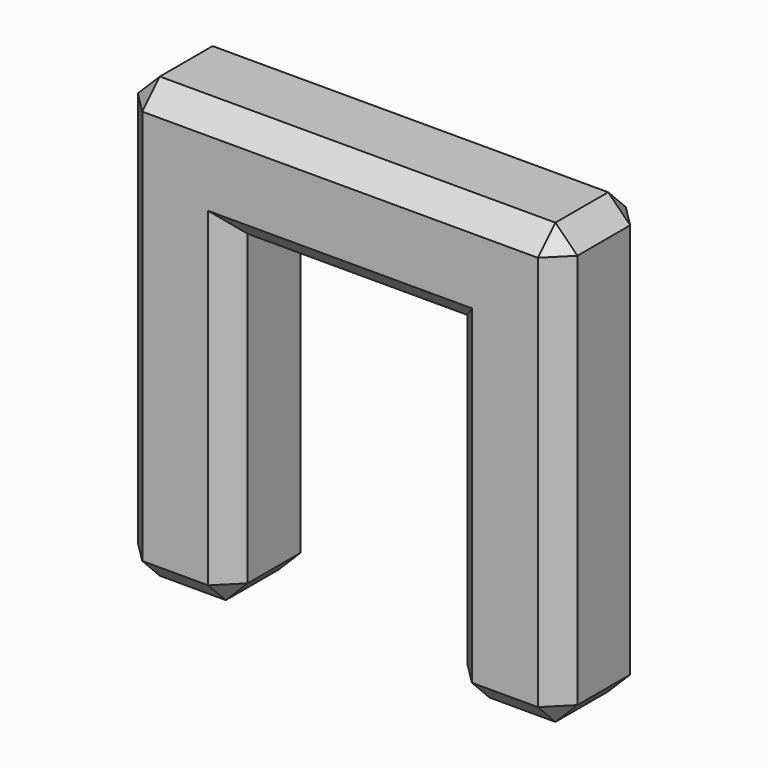
from build123d import *

# Parameters (mm, degrees)
F1_DEPTH = 12.7
F2_SIZE  = 5.08


with BuildPart() as f1:
    # F0 (on Front) → F1 (new body, symmetric)
    with BuildSketch(Plane.XZ):
        Polygon((50.935735, 52.44372), (-50.664265, 52.44372), (-50.664265, -49.15628), (-25.264265, -49.15628), (-25.264265, 27.04372), (25.535735, 27.04372), (25.535735, -49.15628), (50.935735, -49.15628), align=None)
    extrude(amount=F1_DEPTH, both=True)

    # F2
    f2_edges = [f1.edges().sort_by_distance(p)[0] for p in [
        (0.135735, 12.7, 52.44372),
        (-50.664265, 12.7, 1.64372),
        (-37.964265, 12.7, -49.15628),
        (-25.264265, 12.7, -11.05628),
        (0.135735, 12.7, 27.04372),
        (25.535735, 12.7, -11.05628),
        (38.235735, 12.7, -49.15628),
        (50.935735, 12.7, 1.64372),
        (0.135735, -12.7, 52.44372),
        (-50.664265, -12.7, 1.64372),
        (-37.964265, -12.7, -49.15628),
        (-25.264265, -12.7, -11.05628),
        (0.135735, -12.7, 27.04372),
        (25.535735, -12.7, -11.05628),
        (38.235735, -12.7, -49.15628),
        (50.935735, -12.7, 1.64372),
        (-50.664265, 0, 52.44372),
        (50.935735, 0, 52.44372),
        (50.935735, 0, -49.15628),
        (25.535735, 0, -49.15628),
        (-50.664265, 0, -49.15628),
        (-25.264265, 0, -49.15628),
    ]]
    chamfer(f2_edges, length=F2_SIZE)


solid = f1.part
